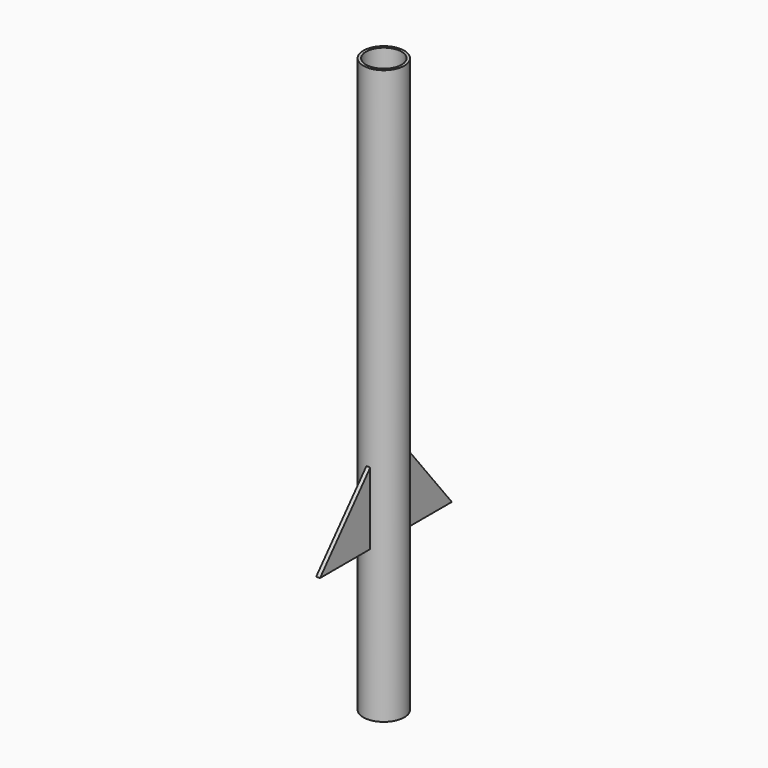
from build123d import *

# Parameters (mm, degrees)
F0_R     = 9.525
F0_R_2   = 8.255
F1_DEPTH = 133.35
F4_DEPTH = 1.778


with BuildPart() as f1:
    # F0 (on Top) → F1 (new body, symmetric)
    with BuildSketch(Plane.XY):
        Circle(F0_R)
        Circle(F0_R_2, mode=Mode.SUBTRACT)
    extrude(amount=F1_DEPTH, both=True)


with BuildPart() as f4:
    # F2 (on Right) + F3 (on Right) → F4 (new body)
    with BuildSketch(Plane.YZ):
        Polygon((9.926053, -28.875791), (9.926053, -62.865004), (37.297897, -62.865004), align=None)
    with BuildSketch(Plane.YZ):
        Polygon((-39.303157, -62.885053), (-10.106525, -62.885053), (-10.106525, -29.477369), align=None)
    extrude(amount=F4_DEPTH)


solid = Compound([f1.part, f4.part])
